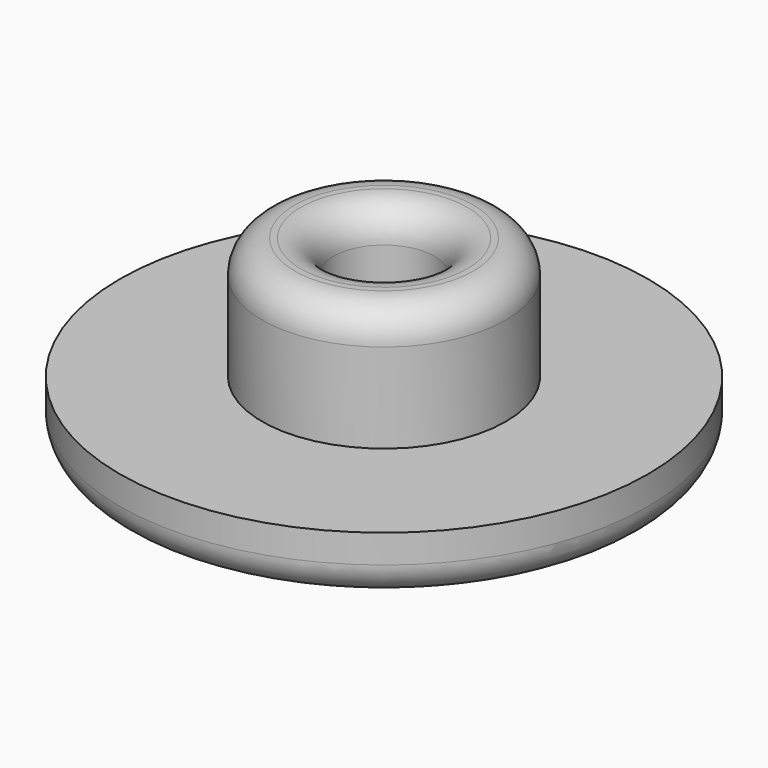
from build123d import *

# Parameters (mm, degrees)
F0_R     = 6.5
F1_DEPTH = 1.5
F2_R     = 3
F3_DEPTH = 3
F4_R     = 1.25
F5_DEPTH = 4.5
F6_R     = 0.8


with BuildPart() as f1:
    # F0 (on Top) → F1 (new body)
    with BuildSketch(Plane.XY):
        Circle(F0_R)
    extrude(amount=F1_DEPTH)

    # F2 (on face) → F3 (join)
    with BuildSketch(Plane.XY.offset(1.5)):
        Circle(F2_R)
    extrude(amount=F3_DEPTH)

    # F4 (on face) → F5 (cut, through all)
    with BuildSketch(Plane.XY.offset(4.5)):
        Circle(F4_R)
    extrude(amount=-F5_DEPTH, mode=Mode.SUBTRACT)

    # F6
    f6_edges = [f1.edges().sort_by_distance(p)[0] for p in [
        (-3, 0, 4.5),
        (-6.5, 0, 0),
        (-1.25, 0, 4.5),
        (-1.25, 0, 0),
    ]]
    fillet(f6_edges, radius=F6_R)


solid = f1.part
